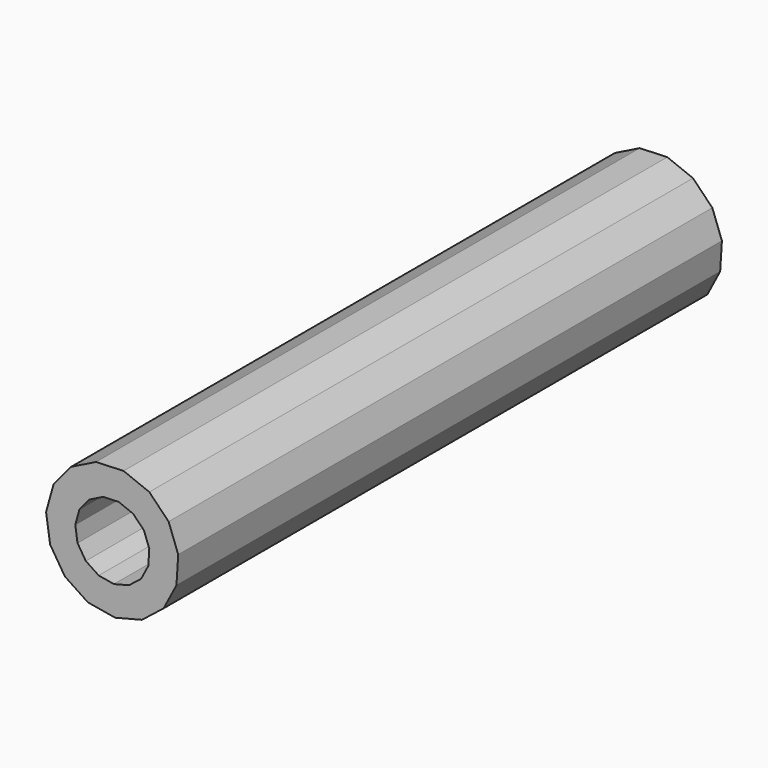
from build123d import *

# Parameters (mm, degrees)
F1_DEPTH = 950
F2_T     = -40


with BuildPart() as f1:
    # F0 (on Front) → F1 (new body)
    with BuildSketch(Plane.XZ):
        Polygon((-87.14233, -32.311225), (-66.46632, -64.961752), (-34.29768, -86.379801), (3.801341, -92.861998), (41.243075, -83.287512), (71.553507, -59.311859), (89.491687, -25.080646), (91.955942, 13.487238), (78.520179, 49.723057), (51.507564, 77.361307), (15.588823, 91.623084), (-23.025367, 90.042398), (-57.658262, 72.892563), (-82.32152, 43.138942), (-92.750639, 5.926206), align=None)
    extrude(amount=F1_DEPTH)

    # F2
    f2_openings = [f1.faces().sort_by_distance(p)[0] for p in [
        (0, -950, 0),
    ]]
    offset(amount=F2_T, openings=f2_openings)


solid = f1.part
